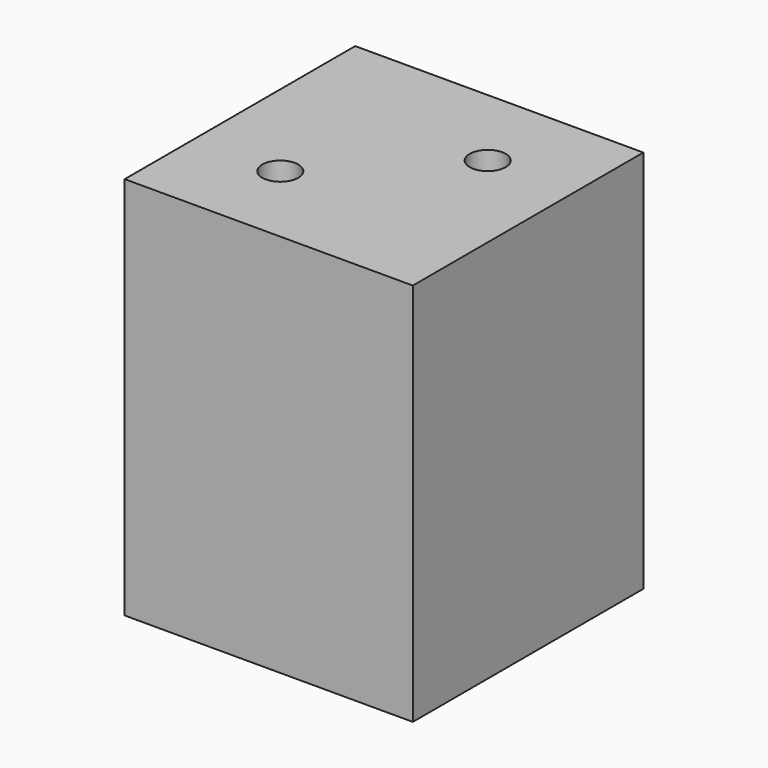
from build123d import *

# Parameters (mm, degrees)
F1_DEPTH = 9.525
F2_W     = 15.24
F2_H     = 15.24
F3_DEPTH = 20.32
F5_D     = 2.38125


with BuildPart() as f1:
    # F0 (on Front) → F1 (new body, symmetric)
    with BuildSketch(Plane.XZ):
        Polygon((9.525, 12.7), (-9.525, 12.7), (-9.525, -12.7), (9.525, -12.7), (9.525, 7.62), align=None)
    extrude(amount=F1_DEPTH, both=True)

    # F2 (on face) → F3 (cut)
    with BuildSketch(Plane(origin=(0, 0, -12.7), x_dir=(1, 0, 0), z_dir=(0, 0, -1))):
        Rectangle(F2_W, F2_H)
    extrude(amount=-F3_DEPTH, mode=Mode.SUBTRACT)

    # F5 (through all)
    with Locations(Plane(origin=(0, 0, 7.62), x_dir=(1, 0, 0), z_dir=(0, 0, -1))):
        with Locations((-3.81, 3.81), (3.81, -3.81)):
            Hole(F5_D / 2)


solid = f1.part
